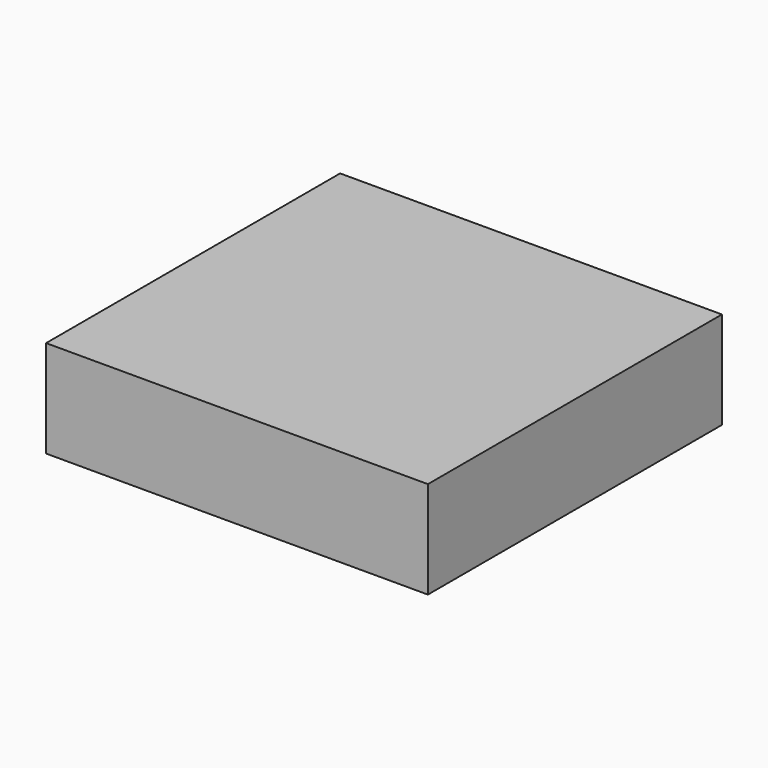
from build123d import *

# Parameters (mm, degrees)
F0_W     = 99.719949
F0_H     = 95.982238
F1_DEPTH = 25.4


with BuildPart() as f1:
    # F0 (on Top) → F1 (new body)
    with BuildSketch(Plane.XY):
        with Locations((1.1e-05, 5.707912)):
            Rectangle(F0_W, F0_H)
        with Locations((1.1e-05, 5.707912)):
            Rectangle(F0_W, F0_H)
    extrude(amount=F1_DEPTH)


solid = f1.part
